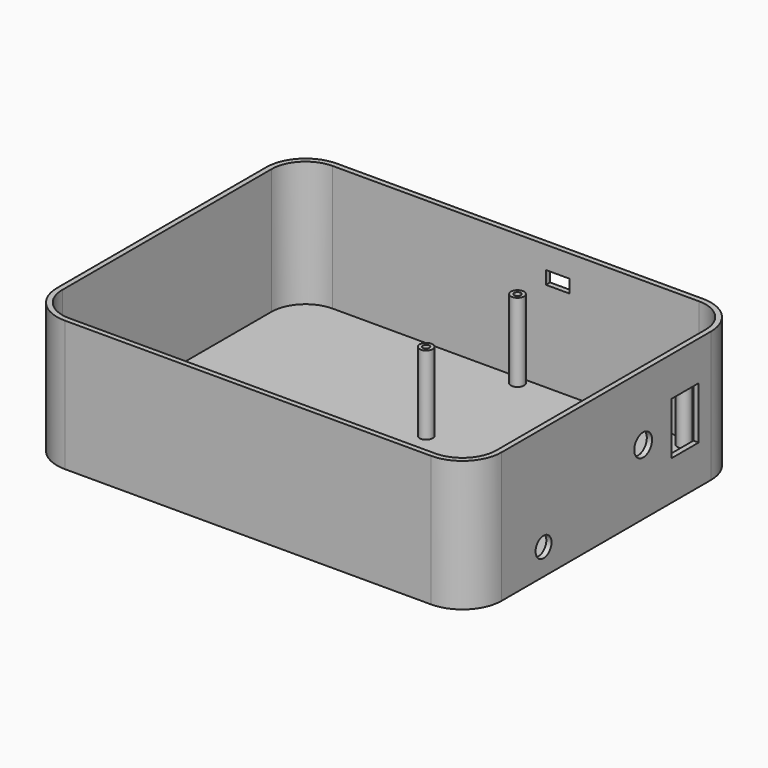
from build123d import *

# Parameters (mm, degrees)
F1_DEPTH  = 50
F2_T      = -2
F3_R      = 2.5
F3_R_2    = 1.25
F4_DEPTH  = 30
F5_W      = 9
F5_H      = 5
F6_DEPTH  = 2
F8_R      = 4.25
F8_W      = 13
F8_H      = 20
F9_DEPTH  = 2
F10_R     = 2.5
F10_R_2   = 1.25
F11_DEPTH = 5
F12_R     = 3.8125
F13_DEPTH = 25


with BuildPart() as f1:
    # F0 (on Top) → F1 (new body)
    with BuildSketch(Plane.XY):
        with BuildLine():
            Line((70, 65), (-70, 65))
            ThreePointArc((-70, 65), (-80.606602, 60.606602), (-85, 50))
            Line((-85, 50), (-85, -50))
            ThreePointArc((-85, -50), (-80.606602, -60.606602), (-70, -65))
            Line((-70, -65), (70, -65))
            ThreePointArc((70, -65), (80.606602, -60.606602), (85, -50))
            Line((85, -50), (85, 50))
            ThreePointArc((85, 50), (80.606602, 60.606602), (70, 65))
        make_face()
    extrude(amount=F1_DEPTH)

    # F2
    f2_openings = [f1.faces().sort_by_distance(p)[0] for p in [
        (0, 0, 50),
    ]]
    offset(amount=F2_T, openings=f2_openings)

    # F3 (on face) → F4 (join)
    with BuildSketch(Plane.XY.offset(2)):
        with Locations((3.175, 59.825)):
            Circle(F3_R)
        with Locations((3.175, 59.825)):
            Circle(F3_R_2, mode=Mode.SUBTRACT)
        with Locations((3.175, 16.175)):
            Circle(F3_R)
        with Locations((3.175, 16.175)):
            Circle(F3_R_2, mode=Mode.SUBTRACT)
        with Locations((66.825, 59.825)):
            Circle(F3_R)
        with Locations((66.825, 59.825)):
            Circle(F3_R_2, mode=Mode.SUBTRACT)
        with Locations((66.825, 16.175)):
            Circle(F3_R)
        with Locations((66.825, 16.175)):
            Circle(F3_R_2, mode=Mode.SUBTRACT)
    extrude(amount=F4_DEPTH)

    # F5 (on face) → F6 (cut, through all)
    with BuildSketch(Plane(origin=(0, 65, 0), x_dir=(-1, 0, 0), z_dir=(0, 1, 0))):
        with Locations((-16, 39)):
            Rectangle(F5_W, F5_H)
    extrude(amount=-F6_DEPTH, mode=Mode.SUBTRACT)

    # F8 (on face) → F9 (cut, through all)
    with BuildSketch(Plane.YZ.offset(85)):
        with Locations((17.588826, 25)):
            Circle(F8_R)
        with Locations((37.588826, 25)):
            Rectangle(F8_W, F8_H)
    extrude(amount=-F9_DEPTH, mode=Mode.SUBTRACT)

    # F10 (on face) → F11 (join)
    with BuildSketch(Plane.XY.offset(2)):
        with Locations((66.973306, 0)):
            Circle(F10_R)
        with Locations((66.973306, 0)):
            Circle(F10_R_2, mode=Mode.SUBTRACT)
    extrude(amount=F11_DEPTH)

    # F12 (on face) → F13 (cut)
    with BuildSketch(Plane.YZ.offset(85)):
        with Locations((-30, 10)):
            Circle(F12_R)
    extrude(amount=-F13_DEPTH, mode=Mode.SUBTRACT)


solid = f1.part
